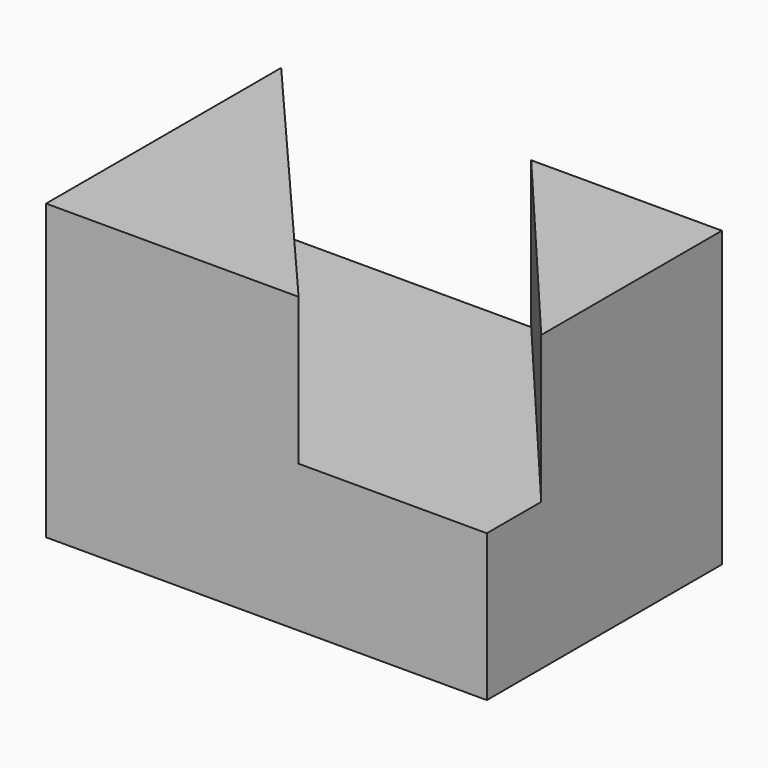
from build123d import *

# Parameters (mm, degrees)
F0_W     = 38.1
F0_H     = 25.4
F1_DEPTH = 25.4
F3_DEPTH = 12.7


with BuildPart() as f1:
    # F0 (on Top) → F1 (new body)
    with BuildSketch(Plane.XY):
        with Locations((19.05, 12.7)):
            Rectangle(F0_W, F0_H)
    extrude(amount=F1_DEPTH)

    # F2 (on face) → F3 (cut)
    with BuildSketch(Plane.XY.offset(25.4)):
        Polygon((21.614075, 25.4), (0, 25.4), (21.827416, 0), (38.1, 0), (38.1, 5.877512), align=None)
    extrude(amount=-F3_DEPTH, mode=Mode.SUBTRACT)


solid = f1.part
